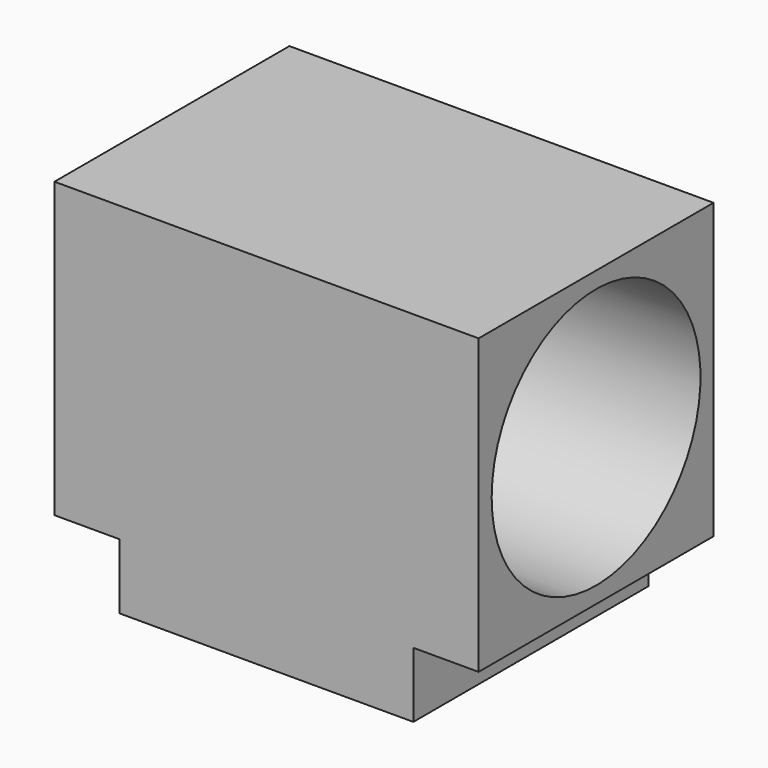
from build123d import *

# Parameters (mm, degrees)
F1_DEPTH = 3.571875
F2_R     = 1.5875
F3_DEPTH = 0.396875
F4_R     = 1.5875
F5_DEPTH = 25.4


with BuildPart() as f1:
    # F0 (on Front) → F1 (new body)
    with BuildSketch(Plane.XZ):
        Polygon((-3.571875, 1.934221), (0, 1.934221), (0, 2.727971), (0.79375, 2.727971), (0.79375, 6.299846), (-4.365625, 6.299846), (-4.365625, 2.727971), (-3.571875, 2.727971), align=None)
    extrude(amount=F1_DEPTH)

    # F2 (on face) → F3 (cut)
    with BuildSketch(Plane(origin=(0, 0, 1.934221), x_dir=(1, 0, 0), z_dir=(0, 0, -1))):
        with Locations((-1.785937, 1.785938)):
            Circle(F2_R)
    extrude(amount=-F3_DEPTH, mode=Mode.SUBTRACT)

    # F4 (on face) → F5 (cut)
    with BuildSketch(Plane(origin=(-4.365625, 0, 0), x_dir=(0, -1, 0), z_dir=(-1, 0, 0))):
        with Locations((1.785938, 4.513908)):
            Circle(F4_R)
    extrude(amount=-F5_DEPTH, mode=Mode.SUBTRACT)


solid = f1.part
